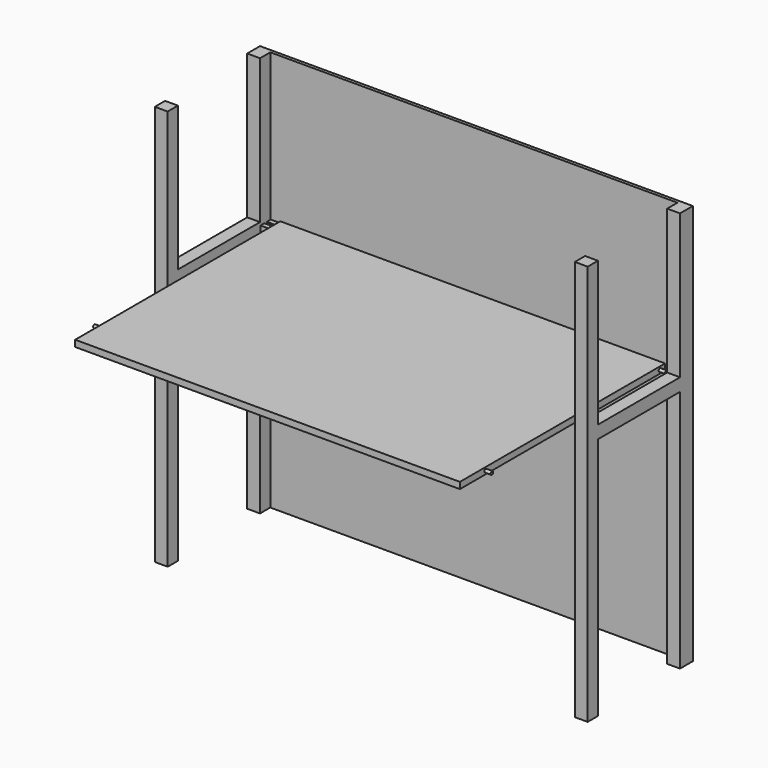
from build123d import *

# Parameters (mm, degrees)
F0_W      = 40
F0_H      = 40
F1_DEPTH  = 1250
F2_W      = 320
F2_H      = 40
F3_DEPTH  = 40
F4_W      = 320
F4_H      = 40
F5_DEPTH  = 40
F6_W      = 1200
F6_H      = 800
F7_DEPTH  = 20
F8_R      = 5
F9_DEPTH  = 20
F10_DEPTH = 1240
F11_DEPTH = 30
F12_DEPTH = 20


with BuildPart() as f1:
    # F0 (on Top) → F1 (new body)
    with BuildSketch(Plane.XY):
        with Locations((-688.1983089447, -412.3124587536)):
            Rectangle(F0_W, F0_H)
    extrude(amount=F1_DEPTH)



with BuildPart() as f1b:
    # F0 (on Top) → F1, piece 2 (new body)
    with BuildSketch(Plane.XY):
        Polygon((-668.1983089447, -72.3124587536), (-668.1983089447, -32.3124587536), (601.8016910553, -32.3124587536), (601.8016910553, -72.3124587536), (641.8016910553, -72.3124587536), (641.8016910553, -22.3124587536), (601.8016910553, -22.3124587536), (-708.1983089447, -22.3124587536), (-708.1983089447, -32.3124587536), (-708.1983089447, -72.3124587536), align=None)
    extrude(amount=F1_DEPTH)


with BuildPart() as f1c:
    # F0 (on Top) → F1, piece 3 (new body)
    with BuildSketch(Plane.XY):
        with Locations((621.8016910553, -412.3124587536)):
            Rectangle(F0_W, F0_H)
    extrude(amount=F1_DEPTH)


with BuildPart() as f1_1:
    add(f1.part)

    add(f1b.part)  # F3 merges F1b
    # F2 (on face) → F3 (join)
    with BuildSketch(Plane.YZ.offset(-668.1983089447)):
        with Locations((-232.3124587536, 780)):
            Rectangle(F2_W, F2_H)
    extrude(amount=-F3_DEPTH)


    add(f1c.part)  # F5 merges F1c
    # F4 (on face) → F5 (join)
    with BuildSketch(Plane.YZ.offset(641.8016910553)):
        with Locations((-232.3124587536, 780)):
            Rectangle(F4_W, F4_H)
    extrude(amount=-F5_DEPTH)


with BuildPart() as f7:
    # F6 (on face) → F7 (new body)
    with BuildSketch(Plane.XY.offset(800)):
        with Locations((-32.2343409061, -437.982240646)):
            Rectangle(F6_W, F6_H)
    extrude(amount=-F7_DEPTH)

    # F8 (on face) → F9 (join)
    with BuildSketch(Plane(origin=(-632.2343409061, 0, 0), x_dir=(0, -1, 0), z_dir=(-1, 0, 0))):
        with BuildLine():
            ThreePointArc((57.982240646, 795), (54.4467067401, 793.5355339059), (52.982240646, 790))
            ThreePointArc((52.982240646, 790), (57.982240646, 785), (62.982240646, 790))
            ThreePointArc((62.982240646, 790), (61.5177745519, 793.5355339059), (57.982240646, 795))
        make_face()
        with Locations((737.982240646, 790)):
            Circle(F8_R)
    extrude(amount=F9_DEPTH)

    # F10 (add): faces of the model
    f10_faces = [f7.faces().sort_by_distance(p)[0] for p in [
        (-652.2343409061, -737.982240646, 790),
        (-652.2343409061, -57.982240646, 790),
    ]]
    extrude(f10_faces, amount=-F10_DEPTH)


with BuildPart() as f11:
    # F8 (on face) → F11 (new body)
    with BuildSketch(Plane(origin=(-632.2343409061, 0, 0), x_dir=(0, -1, 0), z_dir=(-1, 0, 0))):
        with BuildLine():
            ThreePointArc((62.982240646, 790), (57.982240646, 785), (52.982240646, 790))
            Line((52.982240646, 790), (52.982240646, 795))
            Line((52.982240646, 795), (37.982240646, 795))
            Line((37.982240646, 795), (37.982240646, 780))
            Line((37.982240646, 780), (77.982240646, 780))
            Line((77.982240646, 780), (77.982240646, 795))
            Line((77.982240646, 795), (62.982240646, 795))
            Line((62.982240646, 795), (62.982240646, 790))
        make_face()
    extrude(amount=F11_DEPTH)

    # F12 (add): a face of the model
    f12_faces = [f11.faces().sort_by_distance(p)[0] for p in [
        (-647.2343409061, -57.982240646, 780),
    ]]
    extrude(f12_faces, amount=F12_DEPTH)


solid = Compound([f1_1.part, f7.part, f11.part])
